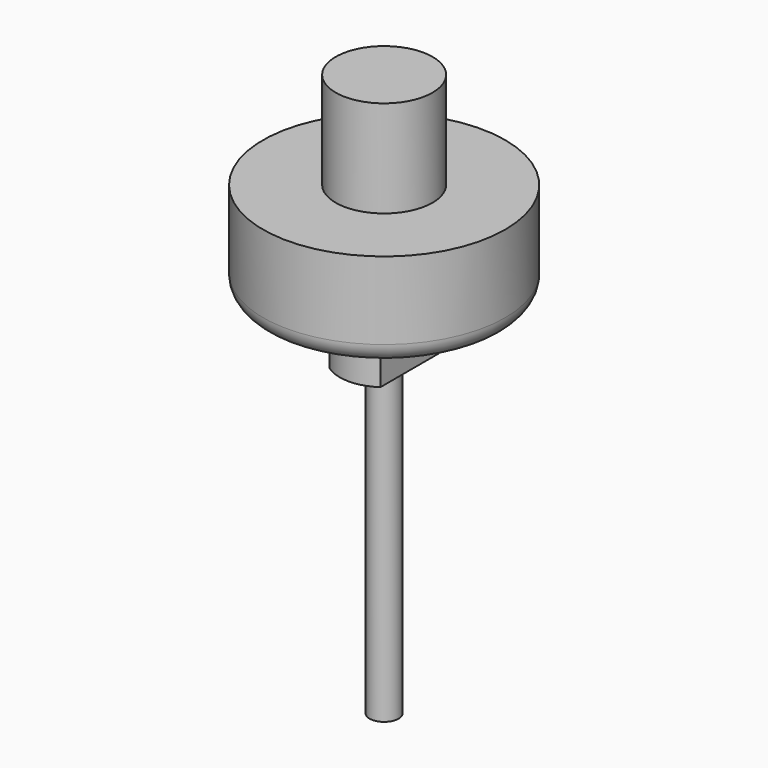
from build123d import *

# Parameters (mm, degrees)
F0_R      = 12.5
F1_DEPTH  = 10
F2_R      = 5
F3_DEPTH  = 10
F4_R      = 4.572682
F5_DEPTH  = 6
F6_R      = 1.5
F7_DEPTH  = 32
F8_R      = 2
F10_DEPTH = 4


with BuildPart() as f1:
    # F0 (on Top) → F1 (new body)
    with BuildSketch(Plane.XY):
        Circle(F0_R)
    extrude(amount=F1_DEPTH)

    # F2 (on face) → F3 (join)
    with BuildSketch(Plane.XY.offset(10)):
        Circle(F2_R)
    extrude(amount=F3_DEPTH)

    # F4 (on face) → F5 (join)
    with BuildSketch(Plane(origin=(0, 0, 0), x_dir=(1, 0, 0), z_dir=(0, 0, -1))):
        Circle(F4_R)
    extrude(amount=F5_DEPTH)

    # F6 (on face) → F7 (join)
    with BuildSketch(Plane(origin=(0, 0, -6), x_dir=(1, 0, 0), z_dir=(0, 0, -1))):
        Circle(F6_R)
    extrude(amount=F7_DEPTH)

    # F8
    f8_edges = [f1.edges().sort_by_distance(p)[0] for p in [
        (-12.5, 0, 0),
    ]]
    fillet(f8_edges, radius=F8_R)

    # F9 (on face) → F10 (cut)
    with BuildSketch(Plane(origin=(0, 0, -6), x_dir=(1, 0, 0), z_dir=(0, 0, -1))):
        with BuildLine():
            ThreePointArc((4.572682, 0), (4.055107, 2.113179), (2.61955, 3.747983))
            Line((2.61955, 3.747983), (2.61955, -3.747983))
            ThreePointArc((2.61955, -3.747983), (4.055107, -2.113179), (4.572682, 0))
        make_face()
        with BuildLine():
            Line((-2.61955, -3.747983), (-2.61955, 3.747983))
            ThreePointArc((-2.61955, 3.747983), (-4.572682, 0), (-2.61955, -3.747983))
        make_face()
    extrude(amount=-F10_DEPTH, mode=Mode.SUBTRACT)


solid = f1.part
